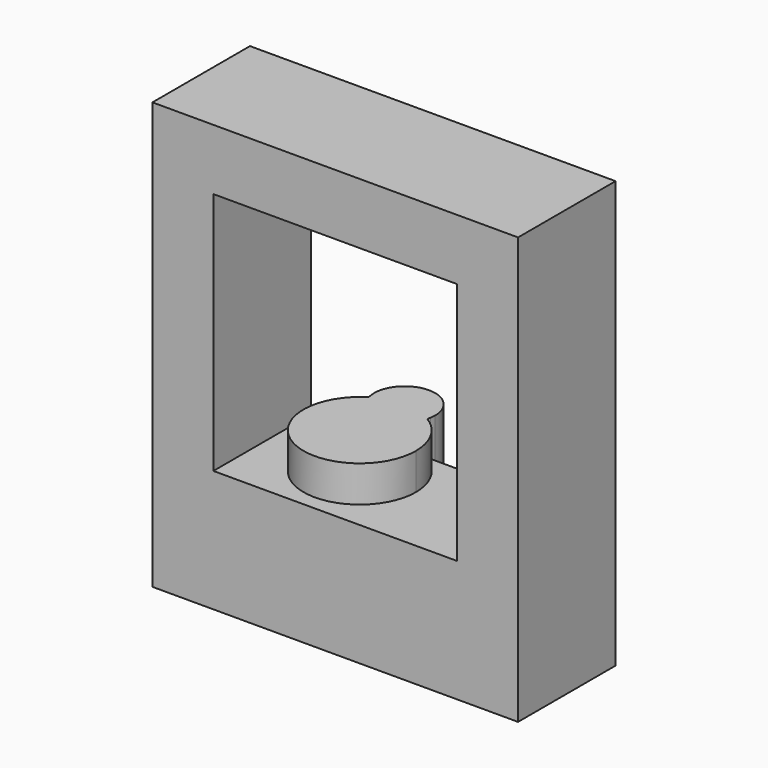
from build123d import *

# Parameters (mm, degrees)
F0_W         = 152.4
F0_H         = 152.4
F0_W_2       = 101.6
F0_H_2       = 101.6
F1_DEPTH     = 25.4
F2_W         = 152.4
F2_H         = 152.4
F2_W_2       = 101.6
F2_H_2       = 101.6
F1_FACE1_W   = 152.4
F1_FACE1_H   = 152.4
F1_FACE1_W_2 = 101.6
F1_FACE1_H_2 = 101.6
F3_DEPTH     = 25.4
F4_DEPTH     = 25.4
F6_DEPTH     = 65.9318938851


with BuildPart() as f1:
    # F0 (on Front) → F1 (new body)
    with BuildSketch(Plane.XZ):
        with Locations((-37.793815136, -33.3924548149)):
            Rectangle(F0_W, F0_H)
        with Locations((-37.793815136, -33.3924548149)):
            Rectangle(F0_W_2, F0_H_2, mode=Mode.SUBTRACT)
    extrude(amount=F1_DEPTH)

    # F2 (on face) + F1_face1 (on face) → F3 (join)
    with BuildSketch(Plane.XZ.offset(25.4)):
        with Locations((-37.793815136, -33.3924548149)):
            Rectangle(F2_W, F2_H)
        with Locations((-37.793815136, -33.3924548149)):
            Rectangle(F2_W_2, F2_H_2, mode=Mode.SUBTRACT)
    with BuildSketch(Plane(origin=(-37.793815136, 0, -33.3924548149), x_dir=(1, 0, 0), z_dir=(0, 1, 0))):
        Rectangle(F1_FACE1_W, F1_FACE1_H)
        Rectangle(F1_FACE1_W_2, F1_FACE1_H_2, mode=Mode.SUBTRACT)
    extrude(amount=F3_DEPTH, dir=(0, -1, 0))

    # F4 (add): a face of the model
    f4_faces = [f1.faces().sort_by_distance(p)[0] for p in [
        (-37.793815136, -25.4, -109.5924548149),
    ]]
    extrude(f4_faces, amount=F4_DEPTH)

    # F5 (on face) → F6 (join)
    with BuildSketch(Plane(origin=(0, 0, -134.9924548149), x_dir=(1, 0, 0), z_dir=(0, 0, -1))):
        with BuildLine():
            ThreePointArc((-38.6654032298, 0), (-38.7976029218, 0.6748576376), (-38.9661378476, 1.3415701457))
            ThreePointArc((-38.9661378476, 1.3415701457), (-40.2086037303, 0.632175677), (-41.4920817767, 0))
            Line((-41.4920817767, 0), (-38.6654032298, 0))
        make_face()
        with BuildLine():
            ThreePointArc((-38.9661378476, 1.3415701457), (-51.1900559068, 10.5968891325), (-63.4139739659, 1.3415701457))
            ThreePointArc((-63.4139739659, 1.3415701457), (-62.1715080832, 0.632175677), (-60.8880300369, 0))
            Line((-60.8880300369, 0), (-41.4920817767, 0))
            ThreePointArc((-41.4920817767, 0), (-40.2086037303, 0.632175677), (-38.9661378476, 1.3415701457))
        make_face()
        with BuildLine():
            ThreePointArc((-60.8880300369, 0), (-62.1715080832, 0.632175677), (-63.4139739659, 1.3415701457))
            ThreePointArc((-63.4139739659, 1.3415701457), (-63.5825088917, 0.6748576376), (-63.7147085837, 0))
            Line((-63.7147085837, 0), (-60.8880300369, 0))
        make_face()
        with BuildLine():
            ThreePointArc((-41.4920817767, 0), (-51.1900559068, -2.1031108675), (-60.8880300369, 0))
            Line((-60.8880300369, 0), (-63.7147085837, 0))
            ThreePointArc((-63.7147085837, 0), (-52.2452599161, -14.7591981183), (-38.4900559068, -2.1031108675))
            ThreePointArc((-38.4900559068, -2.1031108675), (-38.533968656, -1.0479068583), (-38.6654032298, 0))
            Line((-38.6654032298, 0), (-41.4920817767, 0))
        make_face()
        with BuildLine():
            Line((-41.4920817767, 0), (-60.8880300369, 0))
            ThreePointArc((-60.8880300369, 0), (-51.1900559068, -2.1031108675), (-41.4920817767, 0))
        make_face()
        with BuildLine():
            ThreePointArc((-38.9661378476, 1.3415701457), (-30.7660990603, 9.8646449948), (-27.7785993191, 21.3083457202))
            ThreePointArc((-27.7785993191, 21.3083457202), (-62.6337566322, 41.7323025666), (-63.4139739659, 1.3415701457))
            ThreePointArc((-63.4139739659, 1.3415701457), (-51.1900559068, 10.5968891325), (-38.9661378476, 1.3415701457))
        make_face()
    extrude(amount=-F6_DEPTH)


solid = f1.part
